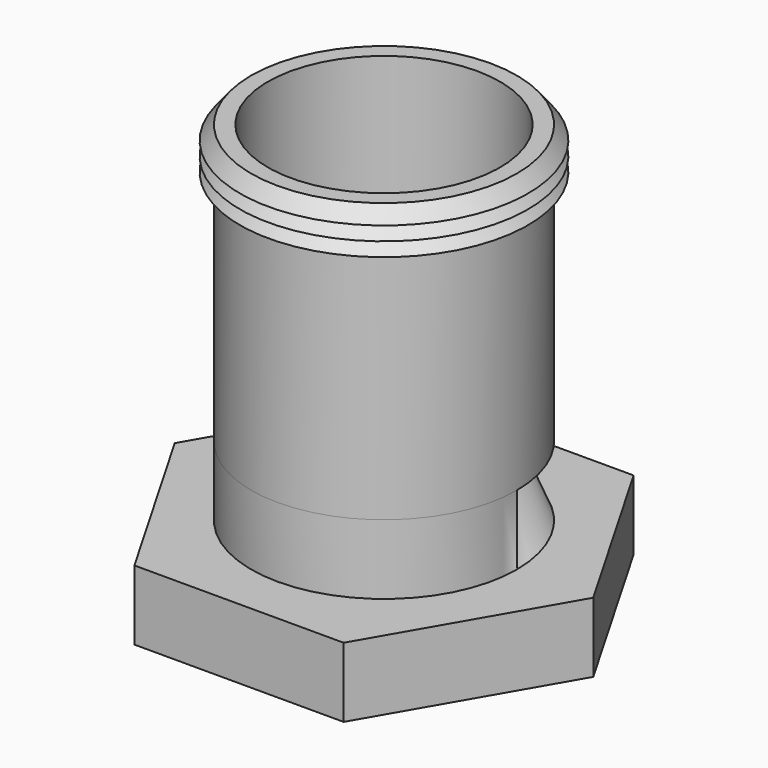
from build123d import *

# Parameters (mm, degrees)
F0_R     = 47.649723
F1_DEPTH = 50
F6_DEPTH = 25


with BuildPart() as f1:
    # F0 (on Top) → F1 (new body)
    with BuildSketch(Plane.XY):
        Circle(F0_R)
    extrude(amount=F1_DEPTH)

    # F2 (on Right) → F3 (revolve)
    with BuildSketch(Plane.YZ):
        Polygon((41.649723, 150), (41.649723, 50), (47.649723, 50), (47.649723, 135), (51.649723, 135), (47.649723, 140), (51.649723, 140), (47.649723, 145), (51.649723, 145), (47.649723, 150), align=None)
    revolve(axis=Axis((0, 0, 109.373078), (0, 0, 1)))

    # F5 (on face) → F6 (join)
    with BuildSketch(Plane(origin=(0, 0, 0), x_dir=(1, 0, 0), z_dir=(0, 0, -1))):
        Polygon((37.527767, -65), (75.055535, 0), (37.527767, 65), (-37.527767, 65), (-75.055535, 0), (-37.527767, -65), align=None)
    extrude(amount=-F6_DEPTH)


solid = f1.part
